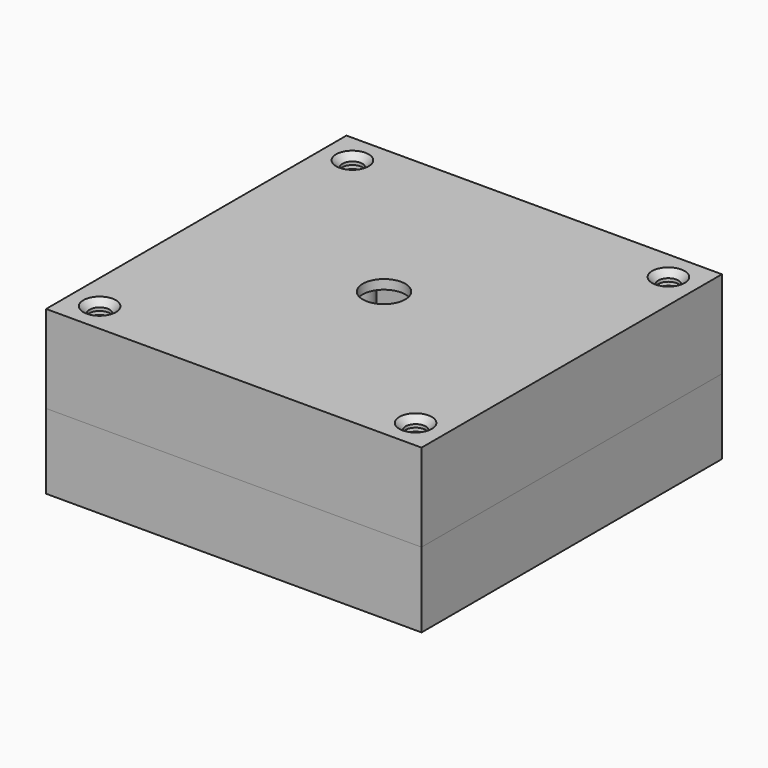
from build123d import *

# Parameters (mm, degrees)
SKETCH_W              = 60
SKETCH_H              = 60
PAD_DEPTH             = 12
THICKNESS_T           = -1
SKETCH001_R           = 3
SKETCH001_R_2         = 1.5
PAD001_DEPTH          = 23
SKETCH002_W           = 11
SKETCH002_H           = 8
POCKET_DEPTH          = 1
PAD002_DEPTH          = 5
SKETCH004_W           = 60
SKETCH004_H           = 60
PAD003_DEPTH          = 14
THICKNESS001_T        = -1.5
SKETCH005_R           = 1.6
POCKET001_DEPTH       = 5
POLARPATTERN_COUNT    = 4
CHAMFER_SIZE          = 1
SKETCH006_R           = 3.4
POCKET002_DEPTH       = 5
SKETCH007_R           = 1
POCKET003_DEPTH       = 1
POLARPATTERN001_COUNT = 4


with BuildPart() as bottom:
    # Sketch → Pad (new body)
    with BuildSketch(Plane.XY):
        Rectangle(SKETCH_W, SKETCH_H)
    extrude(amount=PAD_DEPTH)

    # Thickness
    thickness_openings = [bottom.faces().sort_by_distance(p)[0] for p in [
        (0, 0, 12),
    ]]
    offset(amount=THICKNESS_T, openings=thickness_openings, kind=Kind.INTERSECTION)

    # Sketch001 (on DatumPlane) → Pad001 (join)
    with BuildSketch(Plane.XY.offset(1)):
        with Locations((-25.252334, 25.252334)):
            Circle(SKETCH001_R)
        with Locations((-25.252334, 25.252334)):
            Circle(SKETCH001_R_2, mode=Mode.SUBTRACT)
        with Locations((25.252334, -25.252334)):
            Circle(SKETCH001_R)
        with Locations((25.252334, -25.252334)):
            Circle(SKETCH001_R_2, mode=Mode.SUBTRACT)
        with Locations((25.252334, 25.252334)):
            Circle(SKETCH001_R)
        with Locations((25.252334, 25.252334)):
            Circle(SKETCH001_R_2, mode=Mode.SUBTRACT)
        with Locations((-25.252334, -25.252334)):
            Circle(SKETCH001_R)
        with Locations((-25.252334, -25.252334)):
            Circle(SKETCH001_R_2, mode=Mode.SUBTRACT)
    extrude(amount=PAD001_DEPTH)

    # Sketch002 (on DatumPlane) → Pocket (cut)
    with BuildSketch(Plane(origin=(0, 30, 0), x_dir=(-1, 0, 0), z_dir=(0, 1, 0))):
        with Locations((0, 4)):
            Rectangle(SKETCH002_W, SKETCH002_H)
    extrude(amount=-POCKET_DEPTH, mode=Mode.SUBTRACT)

    # Sketch003 (on DatumPlane) → Pad002 (join)
    with BuildSketch(Plane.XY.offset(1)):
        Polygon((9.2, 29), (9.2, -4.2), (-9.2, -4.2), (-9.2, 29), (-10.2, 29), (-10.2, -5.2), (10.2, -5.2), (10.2, 29), align=None)
    extrude(amount=PAD002_DEPTH)


with BuildPart() as bottom_1:
    # Body placement: moved
    add(bottom.part.moved(Location((0, 0, -12))))


with BuildPart() as top:
    # Sketch004 → Pad003 (new body)
    with BuildSketch(Plane.XY):
        Rectangle(SKETCH004_W, SKETCH004_H)
    extrude(amount=PAD003_DEPTH)

    # Thickness001
    thickness001_openings = [top.faces().sort_by_distance(p)[0] for p in [
        (0, 0, 0),
    ]]
    offset(amount=THICKNESS001_T, openings=thickness001_openings)

    # Sketch005 (on DatumPlane) → Pocket001 (cut)
    with BuildSketch(Plane(origin=(0, 0, 12.5), x_dir=(1, 0, 0), z_dir=(0, 0, -1))):
        with Locations((-25.247309, 25.247309)):
            Circle(SKETCH005_R)
    pocket001 = extrude(amount=-POCKET001_DEPTH, mode=Mode.SUBTRACT)

    # PolarPattern: Pocket001 ×4 about axis
    polarpattern_axis = Axis((0, 0, 12.5), (0, 0, -1))
    for i in range(1, POLARPATTERN_COUNT):
        add(pocket001.rotate(polarpattern_axis, i * 360 / POLARPATTERN_COUNT), mode=Mode.SUBTRACT)

    # Chamfer
    chamfer_edges = [top.edges().sort_by_distance(p)[0] for p in [
        (-26.847309, -25.247309, 14),
        (25.247309, -26.847309, 14),
        (26.847309, 25.247309, 14),
        (-25.247309, 26.847309, 14),
    ]]
    chamfer(chamfer_edges, length=CHAMFER_SIZE)

    # Sketch006 (on DatumPlane) → Pocket002 (cut)
    with BuildSketch(Plane.XY.offset(14)):
        Circle(SKETCH006_R)
    extrude(amount=-POCKET002_DEPTH, mode=Mode.SUBTRACT)

    # Sketch007 (on DatumPlane) → Pocket003 (cut)
    with BuildSketch(Plane(origin=(0, 0, 12.5), x_dir=(1, 0, 0), z_dir=(0, 0, -1))):
        with Locations((-6, 0)):
            Circle(SKETCH007_R)
    pocket003 = extrude(amount=-POCKET003_DEPTH, mode=Mode.SUBTRACT)

    # PolarPattern001: Pocket003 ×4 about axis
    polarpattern001_axis = Axis((0, 0, 12.5), (0, 0, -1))
    for i in range(1, POLARPATTERN001_COUNT):
        add(pocket003.rotate(polarpattern001_axis, i * 360 / POLARPATTERN001_COUNT), mode=Mode.SUBTRACT)


solid = Compound([bottom_1.part, top.part])
